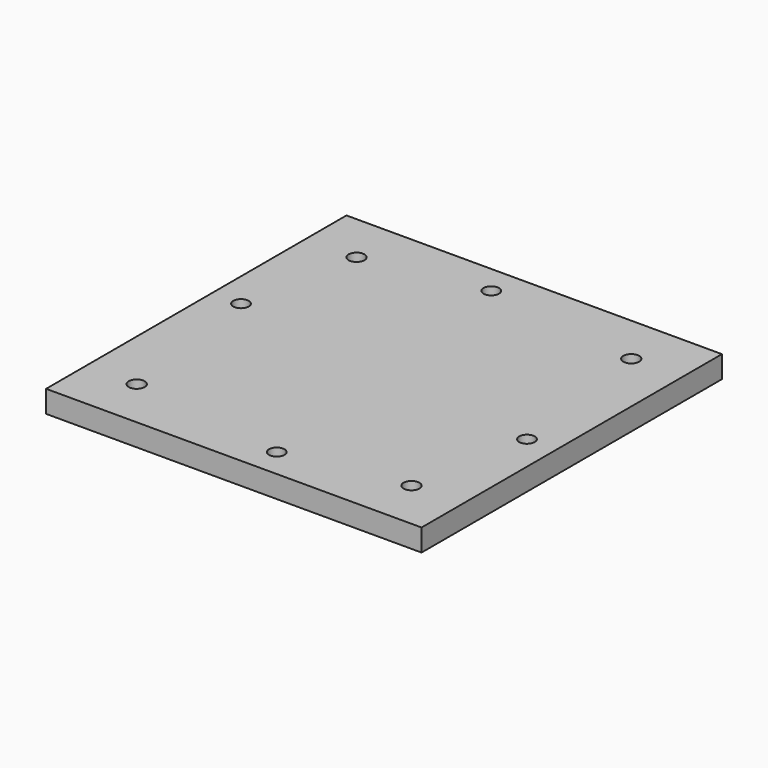
from build123d import *

# Parameters (mm, degrees)
F0_W     = 85
F0_H     = 85
F0_R     = 1.8
F2_DEPTH = 5
F1_R     = 1.75
F3_DEPTH = 10


with BuildPart() as f2:
    # F0 (on Top) → F2 (new body)
    with BuildSketch(Plane.XY):
        Rectangle(F0_W, F0_H)
        with Locations((-31.1, -31.1)):
            Circle(F0_R, mode=Mode.SUBTRACT)
        with Locations((31.1, -31.1)):
            Circle(F0_R, mode=Mode.SUBTRACT)
        with Locations((-31.1, 31.1)):
            Circle(F0_R, mode=Mode.SUBTRACT)
        with Locations((31.1, 31.1)):
            Circle(F0_R, mode=Mode.SUBTRACT)
    extrude(amount=F2_DEPTH)

    # F1 (on face) → F3 (cut)
    with BuildSketch(Plane.XY):
        with Locations((-4.47245, 35.938702)):
            Circle(F1_R)
        with Locations((35.938702, -4.47245)):
            Circle(F1_R)
        with Locations((4.47245, -35.938702)):
            Circle(F1_R)
        with Locations((-35.938702, 4.47245)):
            Circle(F1_R)
    extrude(amount=F3_DEPTH, mode=Mode.SUBTRACT)


solid = f2.part
